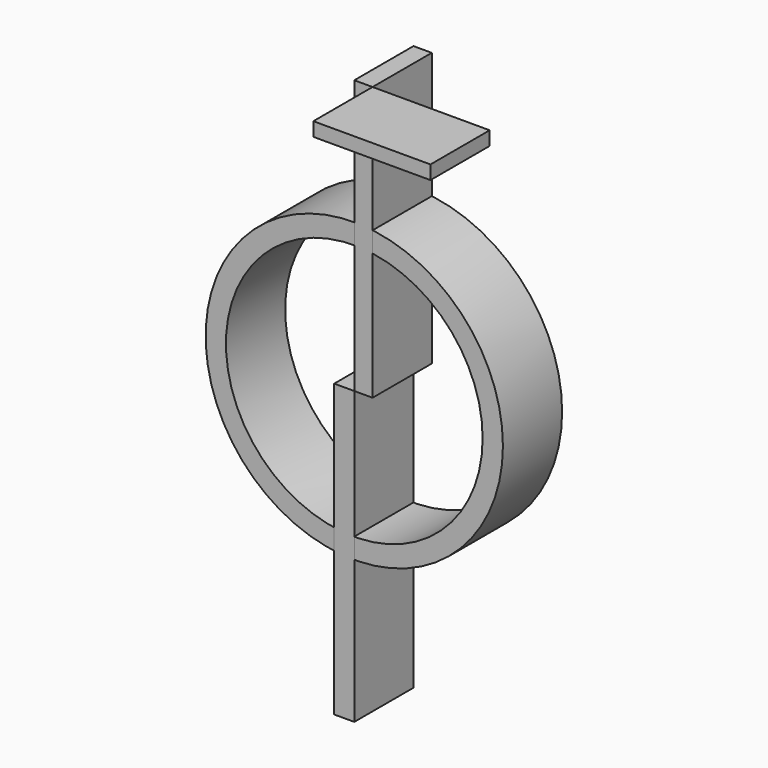
from build123d import *

# Parameters (mm, degrees)
F0_R     = 10.202736
F0_R_2   = 8.810391
F1_DEPTH = 5.08
F2_W     = 1.253951
F2_H     = 18.779367
F2_W_2   = 1.376597
F2_H_2   = 19.996848
F3_DEPTH = 5.08
F4_W     = 8.039493
F4_H     = 0.947753
F5_DEPTH = 5.08


with BuildPart() as f1:
    # F0 (on Front) → F1 (new body)
    with BuildSketch(Plane.XZ):
        Circle(F0_R)
        Circle(F0_R_2, mode=Mode.SUBTRACT)
    extrude(amount=F1_DEPTH)


with BuildPart() as f3:
    # F2 (on Front) → F3 (new body)
    with BuildSketch(Plane.XZ):
        with Locations((0.626976, 9.389684)):
            Rectangle(F2_W, F2_H)
        with Locations((-0.688298, -9.998424)):
            Rectangle(F2_W_2, F2_H_2)
    extrude(amount=F3_DEPTH)


with BuildPart() as f5:
    # F4 (on face) → F5 (new body)
    with BuildSketch(Plane.XZ.offset(5.08)):
        with Locations((5.273697, 18.30549)):
            Rectangle(F4_W, F4_H)
    extrude(amount=F5_DEPTH)


solid = Compound([f1.part, f3.part, f5.part])
